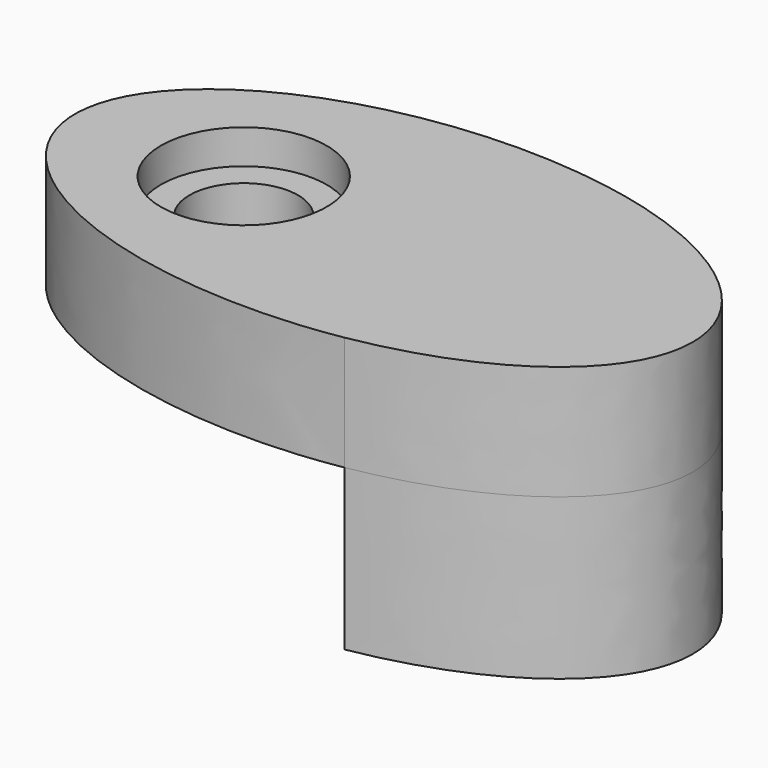
from build123d import *

# Parameters (mm, degrees)
F1_DEPTH = 5
F2_DEPTH = 3.5
F3_DEPTH = 7
F4_DEPTH = 1


with BuildPart() as f1:
    # F0 (on Top) → F1 (new body)
    with BuildSketch(Plane.XY):
        with BuildLine():
            Line((4, -7.1632205323), (4, 7.1632205323))
            add(Edge.make_bspline(
                [(4, 7.1632205323), (-13.5, 10.1793133881), (-13.5, 0)],
                knots=[1.2699838515, 1.2699838515, 1.2699838515, 3.1415926536, 3.1415926536, 3.1415926536], degree=2, weights=[1, 0.593171014, 1]))
            add(Edge.make_bspline(
                [(-13.5, 0), (-13.5, -10.1793133881), (4, -7.1632205323)],
                knots=[3.1415926536, 3.1415926536, 3.1415926536, 5.0132014556, 5.0132014556, 5.0132014556], degree=2, weights=[1, 0.593171014, 1]))
        make_face()
        with BuildLine():
            ThreePointArc((-0.625, 0), (-6.125, -5.5), (-11.625, 0))
            ThreePointArc((-11.625, 0), (-6.125, 5.5), (-0.625, 0))
        make_face(mode=Mode.SUBTRACT)
        with BuildLine():
            add(Edge.make_bspline(
                [(4, -7.1632205323), (13.5, -5.5259129821), (13.5, 0)],
                knots=[5.0132014556, 5.0132014556, 5.0132014556, 6.2831853072, 6.2831853072, 6.2831853072], degree=2, weights=[1, 0.8050764859, 1]))
            add(Edge.make_bspline(
                [(13.5, 0), (13.5, 5.5259129821), (4, 7.1632205323)],
                knots=[0, 0, 0, 1.2699838515, 1.2699838515, 1.2699838515], degree=2, weights=[1, 0.8050764859, 1]))
            Line((4, 7.1632205323), (4, -7.1632205323))
        make_face()
        with BuildLine():
            ThreePointArc((-0.625, 0), (-6.125, 5.5), (-11.625, 0))
            ThreePointArc((-11.625, 0), (-6.125, -5.5), (-0.625, 0))
        make_face()
        with BuildLine():
            ThreePointArc((-2.5, 0), (-6.125, -3.625), (-9.75, 0))
            ThreePointArc((-9.75, 0), (-6.125, 3.625), (-2.5, 0))
        make_face(mode=Mode.SUBTRACT)
    extrude(amount=F1_DEPTH)

    # F0 (on Top) → F2 (join)
    with BuildSketch(Plane.XY):
        with BuildLine():
            ThreePointArc((-2.5, 0), (-6.125, 3.625), (-9.75, 0))
            ThreePointArc((-9.75, 0), (-6.125, -3.625), (-2.5, 0))
        make_face()
        with BuildLine():
            ThreePointArc((-3.75, 0), (-6.125, -2.375), (-8.5, 0))
            ThreePointArc((-8.5, 0), (-6.125, 2.375), (-3.75, 0))
        make_face(mode=Mode.SUBTRACT)
    extrude(amount=F2_DEPTH)

    # F0 (on Top) → F3 (join)
    with BuildSketch(Plane.XY):
        with BuildLine():
            add(Edge.make_bspline(
                [(4, -7.1632205323), (13.5, -5.5259129821), (13.5, 0)],
                knots=[5.0132014556, 5.0132014556, 5.0132014556, 6.2831853072, 6.2831853072, 6.2831853072], degree=2, weights=[1, 0.8050764859, 1]))
            add(Edge.make_bspline(
                [(13.5, 0), (13.5, 5.5259129821), (4, 7.1632205323)],
                knots=[0, 0, 0, 1.2699838515, 1.2699838515, 1.2699838515], degree=2, weights=[1, 0.8050764859, 1]))
            Line((4, 7.1632205323), (4, -7.1632205323))
        make_face()
    extrude(amount=-F3_DEPTH)

    # F0 (on Top) → F4 (cut)
    with BuildSketch(Plane.XY):
        with BuildLine():
            ThreePointArc((-0.625, 0), (-6.125, 5.5), (-11.625, 0))
            ThreePointArc((-11.625, 0), (-6.125, -5.5), (-0.625, 0))
        make_face()
        with BuildLine():
            ThreePointArc((-2.5, 0), (-6.125, -3.625), (-9.75, 0))
            ThreePointArc((-9.75, 0), (-6.125, 3.625), (-2.5, 0))
        make_face(mode=Mode.SUBTRACT)
        with BuildLine():
            ThreePointArc((-2.5, 0), (-6.125, 3.625), (-9.75, 0))
            ThreePointArc((-9.75, 0), (-6.125, -3.625), (-2.5, 0))
        make_face()
        with BuildLine():
            ThreePointArc((-3.75, 0), (-6.125, -2.375), (-8.5, 0))
            ThreePointArc((-8.5, 0), (-6.125, 2.375), (-3.75, 0))
        make_face(mode=Mode.SUBTRACT)
    extrude(amount=F4_DEPTH, mode=Mode.SUBTRACT)


solid = f1.part
